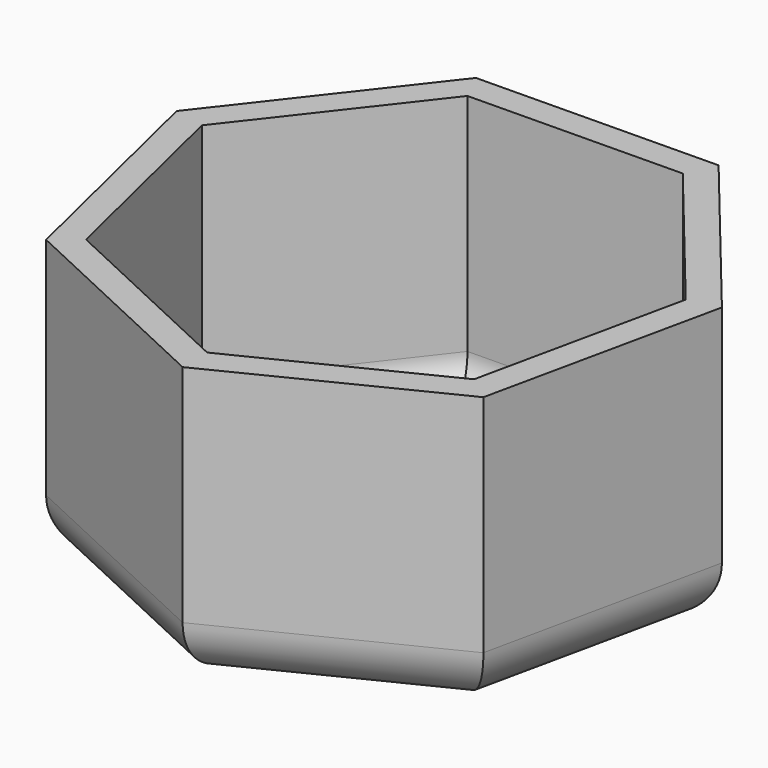
from build123d import *

# Parameters (mm, degrees)
F1_DEPTH = 25
F2_R     = 5
F3_T     = -2.5


with BuildPart() as f1:
    # F0 (on Top) → F1 (new body)
    with BuildSketch(Plane.XY):
        Polygon((19.44085, -15.114036), (23.937801, 5.776022), (10.409099, 22.316617), (-10.957867, 22.052344), (-24.073335, 5.182207), (-19.061091, -15.590238), (0.304543, -24.622916), align=None)
    extrude(amount=F1_DEPTH)

    # F2
    f2_edges = [f1.edges().sort_by_distance(p)[0] for p in [
        (21.689326, -4.669007, 0),
        (17.17345, 14.046319, 0),
        (-0.274384, 22.184481, 0),
        (-17.515601, 13.617276, 0),
        (-21.567213, -5.204016, 0),
        (-9.378274, -20.106577, 0),
        (9.872697, -19.868476, 0),
    ]]
    fillet(f2_edges, radius=F2_R)

    # F3
    f3_openings = [f1.faces().sort_by_distance(p)[0] for p in [
        (0, 0, 25),
    ]]
    offset(amount=F3_T, openings=f3_openings)


solid = f1.part
